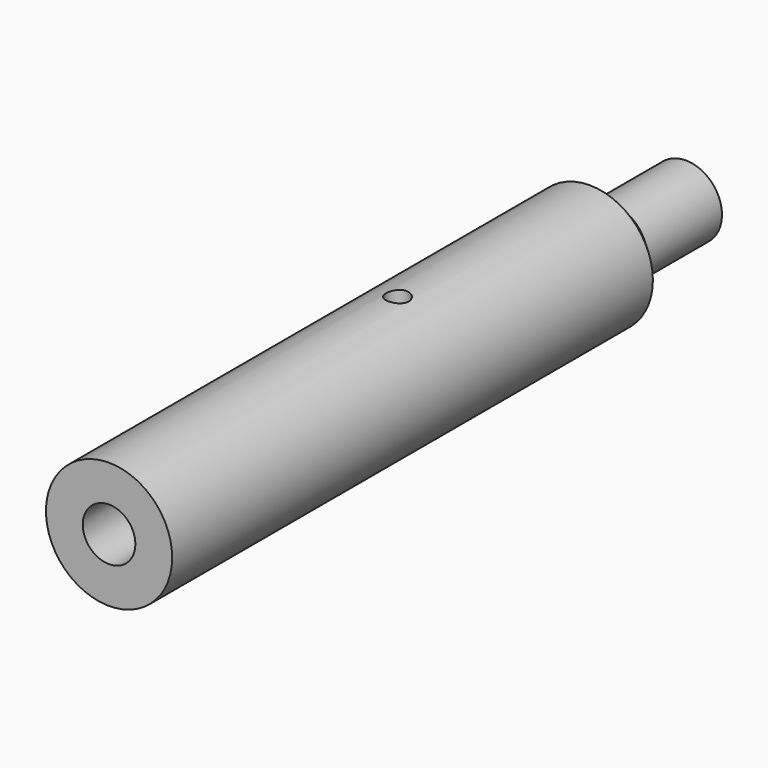
from build123d import *

# Parameters (mm, degrees)
F0_R      = 53.34
F0_R_2    = 22.225
F1_DEPTH  = 304.8
F4_R      = 53.34
F4_R_2    = 30.48
F5_DEPTH  = 101.6
F10_R     = 9.525
F10_R_2   = 3.302
F11_DEPTH = 19.05
F12_DEPTH = 32.3616602869
F13_R     = 9.525
F13_R_2   = 3.302
F14_DEPTH = 19.05
F15_DEPTH = 32.3616602869


with BuildPart() as f1:
    # F0 (on Front) → F1 (new body, symmetric)
    with BuildSketch(Plane.XZ):
        Circle(F0_R)
        Circle(F0_R_2, mode=Mode.SUBTRACT)
    extrude(amount=F1_DEPTH, both=True)

    # F4 (on offset) → F5 (cut)
    with BuildSketch(Plane(origin=(0, 304.8, 0), x_dir=(-1, 0, 0), z_dir=(0, 1, 0))):
        Circle(F4_R)
        Circle(F4_R_2, mode=Mode.SUBTRACT)
    extrude(amount=-F5_DEPTH, mode=Mode.SUBTRACT)

    # F6 (on Right) → F7 (revolve)
    with BuildSketch(Plane.YZ):
        Polygon((203.2, 53.34), (203.2, 30.48), (226.06, 30.48), align=None)
    revolve(axis=Axis((0, 101.6, 0), (0, 1, 0)))

    # F10 (on offset) → F11 (cut)
    with BuildSketch(Plane.XY.offset(53.34)):
        Circle(F10_R)
        Circle(F10_R_2, mode=Mode.SUBTRACT)
        Circle(F10_R_2)
    extrude(amount=-F11_DEPTH, mode=Mode.SUBTRACT)

    # F10 (on offset) → F12 (cut, up to face)
    with BuildSketch(Plane.XY.offset(53.34)):
        Circle(F10_R_2)
    extrude(amount=-F12_DEPTH, mode=Mode.SUBTRACT)

    # F13 (on offset) → F14 (cut)
    with BuildSketch(Plane.XY.offset(-53.34)):
        Circle(F13_R)
        Circle(F13_R_2, mode=Mode.SUBTRACT)
        Circle(F13_R_2)
    extrude(amount=F14_DEPTH, mode=Mode.SUBTRACT)

    # F13 (on offset) → F15 (cut, up to face)
    with BuildSketch(Plane.XY.offset(-53.34)):
        Circle(F13_R_2)
    extrude(amount=F15_DEPTH, mode=Mode.SUBTRACT)

    # F16 (on Right) → F17 (revolve, cut)
    with BuildSketch(Plane.YZ):
        Polygon((6.35, 34.29), (3.302, 34.29), (3.302, 29.21), align=None)
        Polygon((6.35, -34.29), (3.302, -29.21), (3.302, -34.29), align=None)
    revolve(axis=Axis((0, 0, 17.145), (0, 0, 1)), mode=Mode.SUBTRACT)


solid = f1.part
